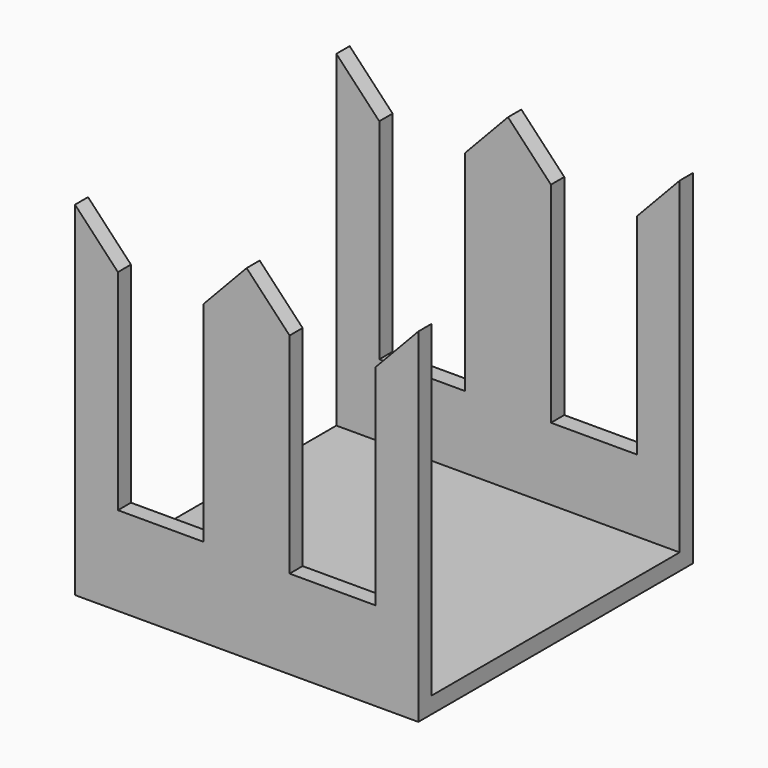
from build123d import *

# Parameters (mm, degrees)
F1_DEPTH = 76.2
F2_W     = 68.889363
F2_H     = 4.894324
F2_H_2   = 72.643043
F3_DEPTH = 88.9


with BuildPart() as f1:
    # F0 (on Front) → F1 (new body)
    with BuildSketch(Plane.XZ):
        Polygon((0, 76.288603), (0, 0), (76.19068, 0), (76.19068, 76.288603), (66.666845, 66.201665), (66.666845, 19.684223), (47.619175, 19.684223), (47.619175, 66.201665), (38.09534, 76.288603), (28.571505, 66.201665), (28.571505, 19.684223), (9.523835, 19.684223), (9.523835, 66.201665), align=None)
    extrude(amount=F1_DEPTH)

    # F2 (on face) → F3 (cut)
    with BuildSketch(Plane.YZ.offset(76.19068)):
        with Locations((-38.141334, 78.735765)):
            Rectangle(F2_W, F2_H)
        with Locations((-38.141334, 39.967081)):
            Rectangle(F2_W, F2_H_2)
    extrude(amount=-F3_DEPTH, mode=Mode.SUBTRACT)


solid = f1.part
